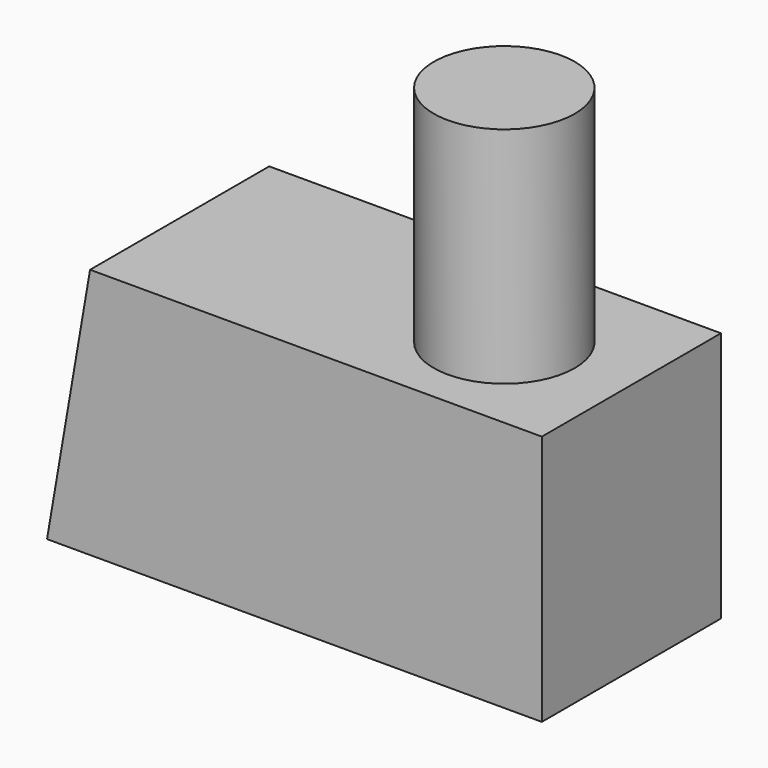
from build123d import *

# Parameters (mm, degrees)
F1_DEPTH = 25.4
F2_R     = 7.99378
F3_DEPTH = 25.4


with BuildPart() as f1:
    # F0 (on Front) → F1 (new body)
    with BuildSketch(Plane.XZ):
        Polygon((25.624175, 14.566519), (-25.624175, 14.566519), (-30.504972, -13.923193), (-25.624175, -13.923193), (25.624175, -13.923193), align=None)
    extrude(amount=F1_DEPTH)

    # F2 (on face) → F3 (join)
    with BuildSketch(Plane.XY.offset(14.566519)):
        with Locations((11.696923, -13.315481)):
            Circle(F2_R)
    extrude(amount=F3_DEPTH)


solid = f1.part
